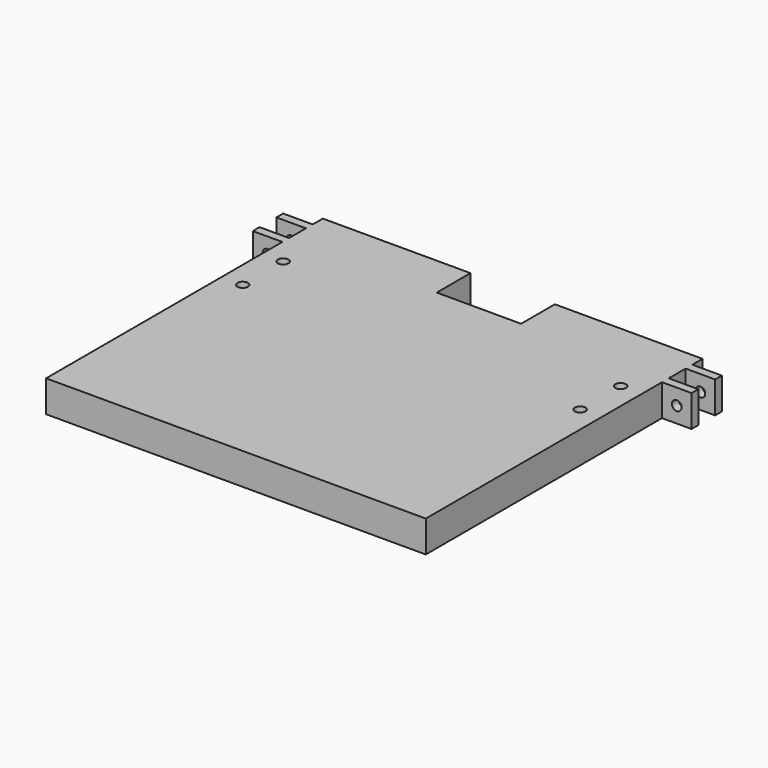
from build123d import *

# Parameters (mm, degrees)
F1_DEPTH = 9.525
F2_R     = 1.4605
F3_DEPTH = 100.331
F4_R     = 1.5875
F5_DEPTH = 9.526


with BuildPart() as f1:
    # F0 (on Top) → F1 (new body)
    with BuildSketch(Plane.XY):
        Polygon((57.15, 100.33), (57.15, 104.14), (12.7, 104.14), (12.7, 91.44), (0, 91.44), (-12.7, 91.44), (-12.7, 104.14), (-57.15, 104.14), (-57.15, 100.33), (-66.04, 100.33), (-66.04, 97.79), (-57.15, 97.79), (-57.15, 91.44), (-66.04, 91.44), (-66.04, 88.9), (-57.15, 88.9), (-57.15, 0), (0, 0), (57.15, 0), (57.15, 88.9), (66.04, 88.9), (66.04, 91.44), (57.15, 91.44), (57.15, 97.79), (66.04, 97.79), (66.04, 100.33), align=None)
    extrude(amount=F1_DEPTH)

    # F2 (on face) → F3 (cut, through all)
    with BuildSketch(Plane(origin=(0, 100.33, 0), x_dir=(-1, 0, 0), z_dir=(0, 1, 0))):
        with Locations((-61.595, 4.7625)):
            Circle(F2_R)
        with Locations((61.595, 4.7625)):
            Circle(F2_R)
    extrude(amount=-F3_DEPTH, mode=Mode.SUBTRACT)

    # F4 (on face) → F5 (cut, through all)
    with BuildSketch(Plane(origin=(0, 0, 0), x_dir=(1, 0, 0), z_dir=(0, 0, -1))):
        with Locations((50.8, -81.28)):
            Circle(F4_R)
        with Locations((50.8, -66.04)):
            Circle(F4_R)
        with Locations((-50.8, -81.28)):
            Circle(F4_R)
        with Locations((-50.8, -66.04)):
            Circle(F4_R)
    extrude(amount=-F5_DEPTH, mode=Mode.SUBTRACT)


solid = f1.part
